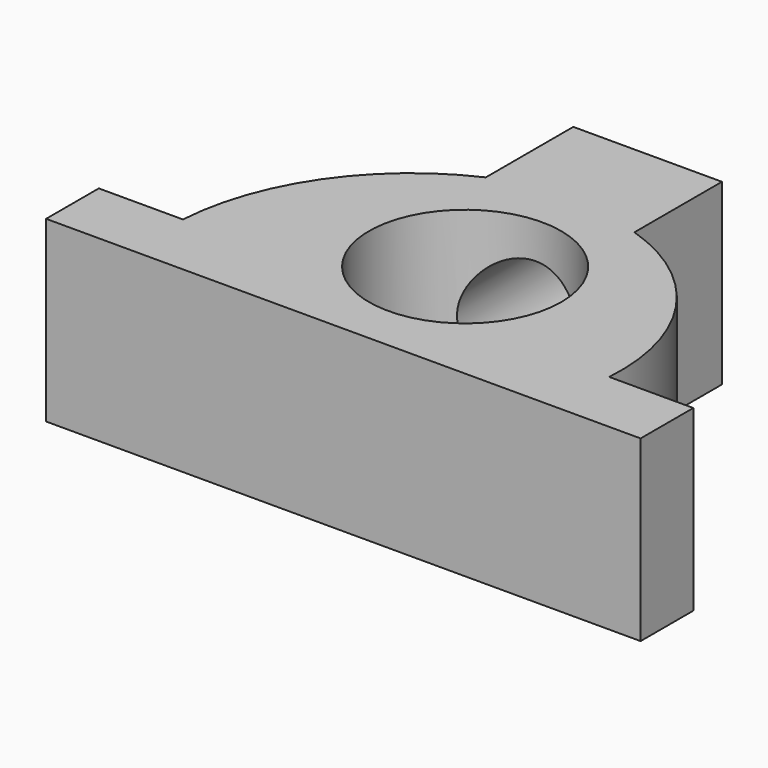
from build123d import *

# Parameters (mm, degrees)
F1_DEPTH = 20.82483
F2_R     = 11.219442
F3_DEPTH = 25.4
F4_R     = 6.603973
F5_DEPTH = 39.32976


with BuildPart() as f1:
    # F0 (on Top) → F1 (new body)
    with BuildSketch(Plane.XY):
        with BuildLine():
            Line((0, 0), (-9.817178, 0))
            ThreePointArc((-9.817178, 0), (-13.732727, 14.634683), (-25.851902, 23.724847))
            Line((-25.851902, 23.724847), (-25.851902, 36.487177))
            Line((-25.851902, 36.487177), (-43.195583, 36.487177))
            Line((-43.195583, 36.487177), (-43.195583, 23.724847))
            ThreePointArc((-43.195583, 23.724847), (-54.642663, 14.114905), (-59.557546, 0))
            Line((-59.557546, 0), (-69.374725, 0))
            Line((-69.374725, 0), (-69.374725, -7.690122))
            Line((-69.374725, -7.690122), (0, -7.690122))
            Line((0, -7.690122), (0, 0))
        make_face()
    extrude(amount=F1_DEPTH)

    # F2 (on Top) → F3 (cut)
    with BuildSketch(Plane.XY):
        with Locations((-33.670925, 8.802438)):
            Circle(F2_R)
    extrude(amount=F3_DEPTH, mode=Mode.SUBTRACT)

    # F4 (on Front) → F5 (cut)
    with BuildSketch(Plane.XZ):
        with Locations((-34.637902, 10.000476)):
            Circle(F4_R)
    extrude(amount=-F5_DEPTH, mode=Mode.SUBTRACT)


solid = f1.part
